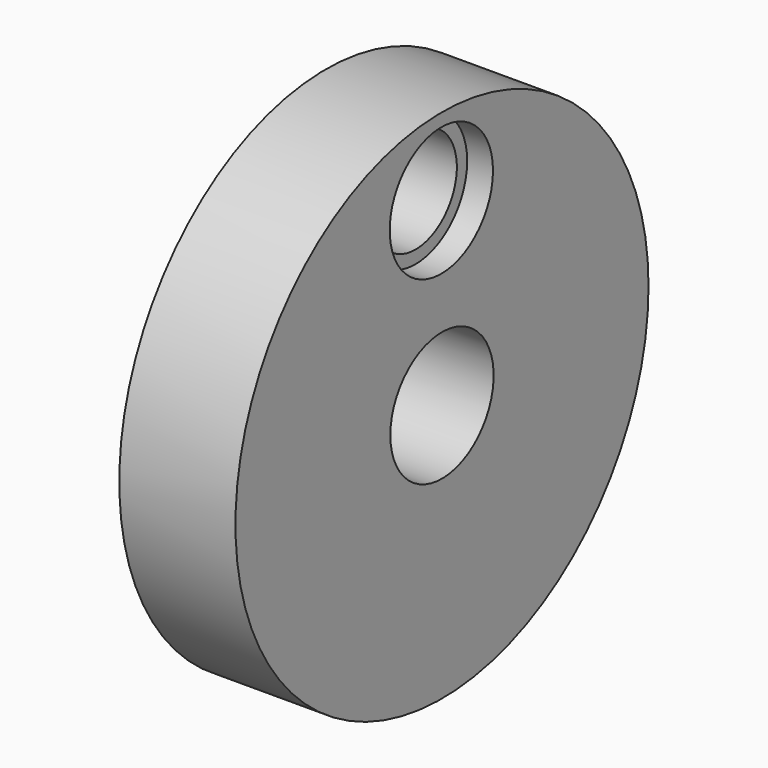
from build123d import *

# Parameters (mm, degrees)
F0_R           = 20
F1_DEPTH       = 4.5
F3_D           = 10
F4_D           = 8
F4_CBORE_D     = 10
F4_CBORE_DEPTH = 2


with BuildPart() as f1:
    # F0 (on Right) → F1 (new body, symmetric)
    with BuildSketch(Plane.YZ):
        Circle(F0_R)
    extrude(amount=F1_DEPTH, both=True)

    # F3 (through all)
    with Locations(Plane.YZ.offset(4.5)):
        with Locations((0, 0)):
            Hole(F3_D / 2)

    # F4 (through all)
    with Locations(Plane.YZ.offset(4.5)):
        with Locations((-0.062594, 13.99986)):
            CounterBoreHole(F4_D / 2, F4_CBORE_D / 2, F4_CBORE_DEPTH)


solid = f1.part
